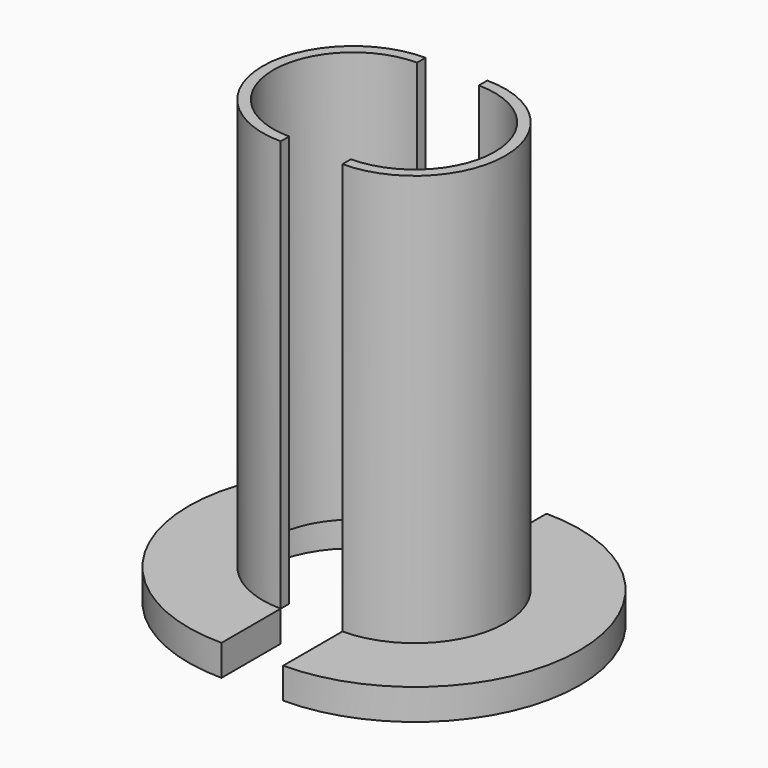
from build123d import *

# Parameters (mm, degrees)
F1_DEPTH = 20
F3_DEPTH = 1.5


with BuildPart() as f1:
    # F0 (on Top) → F1 (new body)
    with BuildSketch(Plane.XY):
        with BuildLine():
            ThreePointArc((0, -3.885), (-3.885, 0), (0, 3.885))
            Line((0, 3.885), (0, 4.4))
            ThreePointArc((0, 4.4), (-4.4, 0), (0, -4.4))
            Line((0, -4.4), (0, -3.885))
        make_face()
    extrude(amount=F1_DEPTH)


with BuildPart() as f3:
    # F2 (on face) → F3 (new body)
    with BuildSketch(Plane(origin=(0, 0, 0), x_dir=(1, 0, 0), z_dir=(0, 0, -1))):
        with BuildLine():
            Line((0, 4.4), (0, 8))
            ThreePointArc((0, 8), (-8, 0), (0, -8))
            Line((0, -8), (0, -4.4))
            ThreePointArc((0, -4.4), (-4.4, 0), (0, 4.4))
        make_face()
    extrude(amount=F3_DEPTH)


with BuildPart() as f4_1:
    # F4: instance of F3
    add(f3.part.mirror(Plane.YZ))


with BuildPart() as f4_2:
    # F4: instance of F1
    add(f1.part.mirror(Plane.YZ))


with BuildPart() as f4_1_1:
    # F5: moved
    add(f4_1.part.moved(Location((3, 0, 0))))


with BuildPart() as f4_2_1:
    # F5: moved
    add(f4_2.part.moved(Location((3, 0, 0))))


solid = Compound([f1.part, f3.part, f4_1_1.part, f4_2_1.part])
